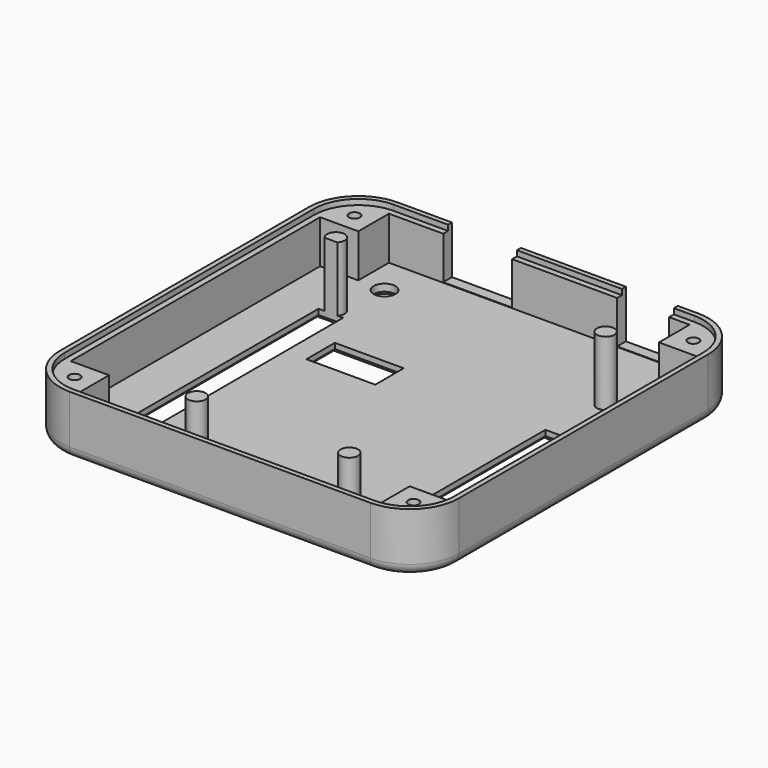
from build123d import *

# Parameters (mm, degrees)
F1_DEPTH  = 2
F2_R      = 1.6
F3_DEPTH  = 11.8
F5_DEPTH  = 8.9
F7_DEPTH  = 1
F8_W      = 12.6
F8_H      = 2
F8_W_2    = 9.5
F9_DEPTH  = 8.8
F10_W     = 4.5
F10_H     = 49.5
F10_H_2   = 40.5
F11_DEPTH = 10
F12_DEPTH = 15
F14_DEPTH = 7.9
F15_R     = 1
F16_DEPTH = 7
F17_W     = 12.6
F17_H     = 6.5
F18_DEPTH = 4
F19_SIZE  = 1
F20_R     = 2
F21_DEPTH = 4
F22_R     = 2
F23_SIZE  = 0.7


with BuildPart() as f1:
    # F0 (on Top) → F1 (new body)
    with BuildSketch(Plane.XY):
        with BuildLine():
            Line((27.5, 38.5), (-27.5, 38.5))
            ThreePointArc((-27.5, 38.5), (-33.863961, 35.863961), (-36.5, 29.5))
            Line((-36.5, 29.5), (-36.5, -27.5))
            ThreePointArc((-36.5, -27.5), (-33.863961, -33.863961), (-27.5, -36.5))
            Line((-27.5, -36.5), (27.5, -36.5))
            ThreePointArc((27.5, -36.5), (33.863961, -33.863961), (36.5, -27.5))
            Line((36.5, -27.5), (36.5, 29.5))
            ThreePointArc((36.5, 29.5), (33.863961, 35.863961), (27.5, 38.5))
        make_face()
    extrude(amount=F1_DEPTH)

    # F2 (on face) → F3 (join)
    with BuildSketch(Plane.XY.offset(2)):
        with Locations((-24.16, 20.2)):
            Circle(F2_R)
        with Locations((24.14, 21.5)):
            Circle(F2_R)
        with Locations((18.94, -30.6)):
            Circle(F2_R)
        with Locations((-8.96, -30.6)):
            Circle(F2_R)
    extrude(amount=F3_DEPTH)

    # F4 (on face) → F5 (join)
    with BuildSketch(Plane.XY.offset(2)):
        with BuildLine():
            Line((27.5, 38.5), (-27.5, 38.5))
            ThreePointArc((-27.5, 38.5), (-33.863961, 35.863961), (-36.5, 29.5))
            Line((-36.5, 29.5), (-36.5, -27.5))
            ThreePointArc((-36.5, -27.5), (-33.863961, -33.863961), (-27.5, -36.5))
            Line((-27.5, -36.5), (27.5, -36.5))
            ThreePointArc((27.5, -36.5), (33.863961, -33.863961), (36.5, -27.5))
            Line((36.5, -27.5), (36.5, 29.5))
            ThreePointArc((36.5, 29.5), (33.863961, 35.863961), (27.5, 38.5))
        make_face()
        with BuildLine():
            ThreePointArc((-34.5, 29.5), (-32.449747, 34.449747), (-27.5, 36.5))
            Line((-27.5, 36.5), (27.5, 36.5))
            ThreePointArc((27.5, 36.5), (32.449747, 34.449747), (34.5, 29.5))
            Line((34.5, 29.5), (34.5, -27.5))
            ThreePointArc((34.5, -27.5), (32.449747, -32.449747), (27.5, -34.5))
            Line((27.5, -34.5), (-27.5, -34.5))
            ThreePointArc((-27.5, -34.5), (-32.449747, -32.449747), (-34.5, -27.5))
            Line((-34.5, -27.5), (-34.5, 29.5))
        make_face(mode=Mode.SUBTRACT)
    extrude(amount=F5_DEPTH)

    # F6 (on face) → F7 (cut)
    with BuildSketch(Plane.XY.offset(10.9)):
        with BuildLine():
            Line((27.5, 37.6), (-27.5, 37.6))
            ThreePointArc((-27.5, 37.6), (-33.227565, 35.227565), (-35.6, 29.5))
            Line((-35.6, 29.5), (-35.6, -27.5))
            ThreePointArc((-35.6, -27.5), (-33.227565, -33.227565), (-27.5, -35.6))
            Line((-27.5, -35.6), (27.5, -35.6))
            ThreePointArc((27.5, -35.6), (33.227565, -33.227565), (35.6, -27.5))
            Line((35.6, -27.5), (35.6, 29.5))
            ThreePointArc((35.6, 29.5), (33.227565, 35.227565), (27.5, 37.6))
        make_face()
        with BuildLine():
            ThreePointArc((-34.5, 29.5), (-32.449747, 34.449747), (-27.5, 36.5))
            Line((-27.5, 36.5), (27.5, 36.5))
            ThreePointArc((27.5, 36.5), (32.449747, 34.449747), (34.5, 29.5))
            Line((34.5, 29.5), (34.5, -27.5))
            ThreePointArc((34.5, -27.5), (32.449747, -32.449747), (27.5, -34.5))
            Line((27.5, -34.5), (-27.5, -34.5))
            ThreePointArc((-27.5, -34.5), (-32.449747, -32.449747), (-34.5, -27.5))
            Line((-34.5, -27.5), (-34.5, 29.5))
        make_face(mode=Mode.SUBTRACT)
    extrude(amount=-F7_DEPTH, mode=Mode.SUBTRACT)

    # F8 (on face) → F9 (cut)
    with BuildSketch(Plane.XY.offset(10.9)):
        with Locations((-11.26, 37.5)):
            Rectangle(F8_W, F8_H)
        with Locations((18.99, 37.5)):
            Rectangle(F8_W_2, F8_H)
    extrude(amount=-F9_DEPTH, mode=Mode.SUBTRACT)

    # F10 (on face) → F11 (cut)
    with BuildSketch(Plane.XY.offset(2)):
        with Locations((-24.21, -5.65)):
            Rectangle(F10_W, F10_H)
        with Locations((24.49, -10.15)):
            Rectangle(F10_W, F10_H_2)
    extrude(amount=-F11_DEPTH, mode=Mode.SUBTRACT)

    # F10 (on face) → F12 (cut)
    with BuildSketch(Plane.XY.offset(2)):
        with Locations((-24.21, -5.65)):
            Rectangle(F10_W, F10_H)
        with Locations((24.49, -10.15)):
            Rectangle(F10_W, F10_H_2)
    extrude(amount=F12_DEPTH, mode=Mode.SUBTRACT)

    # F13 (on face) → F14 (join)
    with BuildSketch(Plane.XY.offset(2)):
        with BuildLine():
            Line((-27.5, 29.5), (-27.5, 36.5))
            ThreePointArc((-27.5, 36.5), (-32.449747, 34.449747), (-34.5, 29.5))
            Line((-34.5, 29.5), (-27.5, 29.5))
        make_face()
        with BuildLine():
            Line((27.5, 29.5), (34.5, 29.5))
            ThreePointArc((34.5, 29.5), (32.449747, 34.449747), (27.5, 36.5))
            Line((27.5, 36.5), (27.5, 29.5))
        make_face()
        with BuildLine():
            Line((27.5, -27.5), (27.5, -34.5))
            ThreePointArc((27.5, -34.5), (32.449747, -32.449747), (34.5, -27.5))
            Line((34.5, -27.5), (27.5, -27.5))
        make_face()
        with BuildLine():
            Line((-27.5, -27.5), (-34.5, -27.5))
            ThreePointArc((-34.5, -27.5), (-32.449747, -32.449747), (-27.5, -34.5))
            Line((-27.5, -34.5), (-27.5, -27.5))
        make_face()
    extrude(amount=F14_DEPTH)

    # F15 (on face) → F16 (cut)
    with BuildSketch(Plane.XY.offset(9.9)):
        with Locations((-31, 33)):
            Circle(F15_R)
        with Locations((31, 33)):
            Circle(F15_R)
        with Locations((31, -31)):
            Circle(F15_R)
        with Locations((-31, -31)):
            Circle(F15_R)
    extrude(amount=-F16_DEPTH, mode=Mode.SUBTRACT)

    # F17 (on face) → F18 (cut)
    with BuildSketch(Plane.XY.offset(2)):
        with Locations((-11.76, 9.075)):
            Rectangle(F17_W, F17_H)
    extrude(amount=-F18_DEPTH, mode=Mode.SUBTRACT)

    # F19
    f19_edges = [f1.edges().sort_by_distance(p)[0] for p in [
        (-26.46, -5.65, 0),
        (-24.21, 19.1, 0),
        (-21.96, -5.65, 0),
        (-24.21, -30.4, 0),
        (-11.76, 5.825, 0),
        (-18.06, 9.075, 0),
        (-11.76, 12.325, 0),
        (-5.46, 9.075, 0),
        (22.24, -10.15, 0),
        (26.74, -10.15, 0),
        (24.49, 10.1, 0),
        (24.49, -30.4, 0),
    ]]
    chamfer(f19_edges, length=F19_SIZE)

    # F20 (on face) → F21 (cut)
    with BuildSketch(Plane.XY.offset(2)):
        with Locations((-22.7, 29.5)):
            Circle(F20_R)
    extrude(amount=-F21_DEPTH, mode=Mode.SUBTRACT)

    # F22
    f22_edges = [f1.edges().sort_by_distance(p)[0] for p in [
        (0, 38.5, 0),
    ]]
    fillet(f22_edges, radius=F22_R)

    # F23
    f23_edges = [f1.edges().sort_by_distance(p)[0] for p in [
        (-24.7, 29.5, 0),
    ]]
    chamfer(f23_edges, length=F23_SIZE)


solid = f1.part
